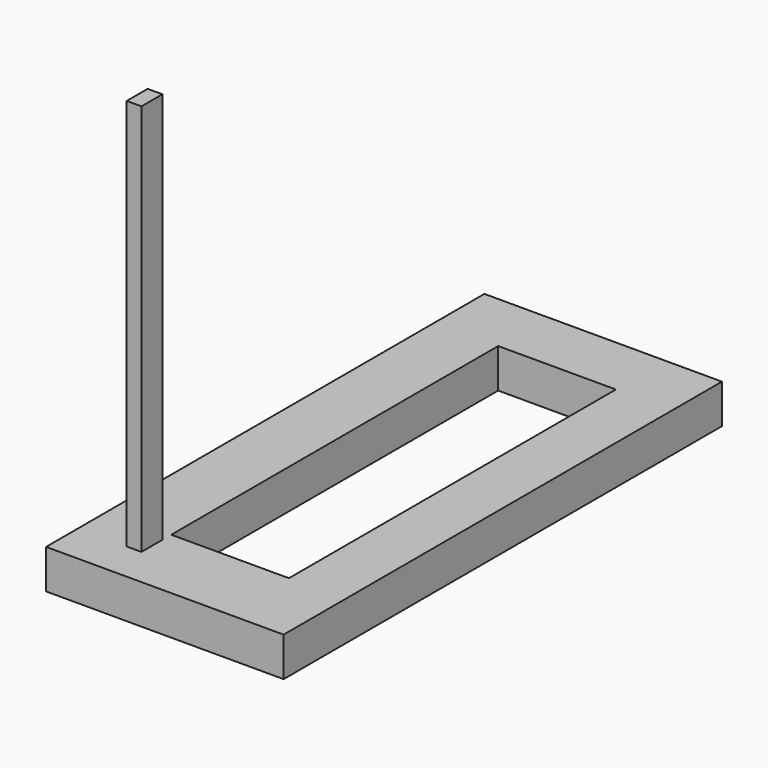
from build123d import *

# Parameters (mm, degrees)
F0_W     = 1845.644349
F0_H     = 4256.92812
F0_W_2   = 914.4
F0_H_2   = 3175
F1_DEPTH = 304.8
F2_W     = 114.3
F2_H     = 203.2
F3_DEPTH = 3048


with BuildPart() as f1:
    # F0 (on Top) → F1 (new body)
    with BuildSketch(Plane.XY):
        with Locations((429.527444, 1615.918419)):
            Rectangle(F0_W, F0_H)
        with Locations((457.2, 1674.127246)):
            Rectangle(F0_W_2, F0_H_2, mode=Mode.SUBTRACT)
    extrude(amount=F1_DEPTH)

    # F2 (on face) → F3 (join)
    with BuildSketch(Plane.XY.offset(304.8)):
        with Locations((-57.15, -101.6)):
            Rectangle(F2_W, F2_H)
    extrude(amount=F3_DEPTH)


solid = f1.part
